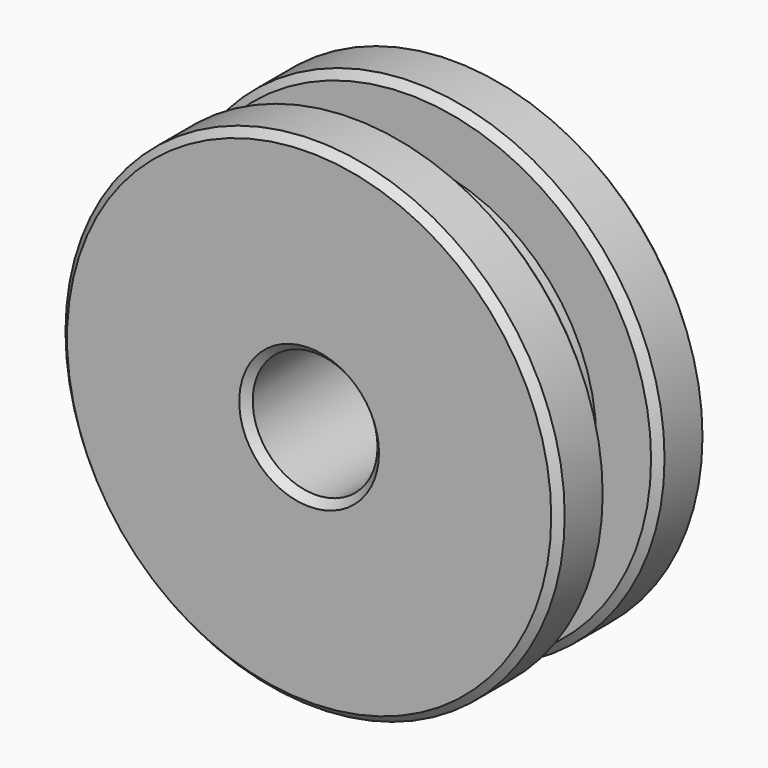
from build123d import *

# Parameters (mm, degrees)
F2_R     = 3.175
F3_DEPTH = 9.526
F4_SIZE  = 0.381


with BuildPart() as f1:
    # F0 (on Top) → F1 (revolve)
    with BuildSketch(Plane.XY):
        Polygon((0, 9.525), (0, 0), (12.7, 0), (12.7, 3.175), (9.525, 3.175), (9.525, 6.35), (12.7, 6.35), (12.7, 9.525), align=None)
    revolve(axis=Axis((0, 4.7625, 0), (0, 1, 0)))

    # F2 (on face) → F3 (cut, through all)
    with BuildSketch(Plane.XZ):
        Circle(F2_R)
    extrude(amount=-F3_DEPTH, mode=Mode.SUBTRACT)

    # F4
    f4_edges = [f1.edges().sort_by_distance(p)[0] for p in [
        (-3.175, 0, 0),
        (-3.175, 9.525, 0),
        (-12.7, 0, 0),
        (-12.7, 3.175, 0),
        (-12.7, 6.35, 0),
        (-12.7, 9.525, 0),
    ]]
    chamfer(f4_edges, length=F4_SIZE)


solid = f1.part
